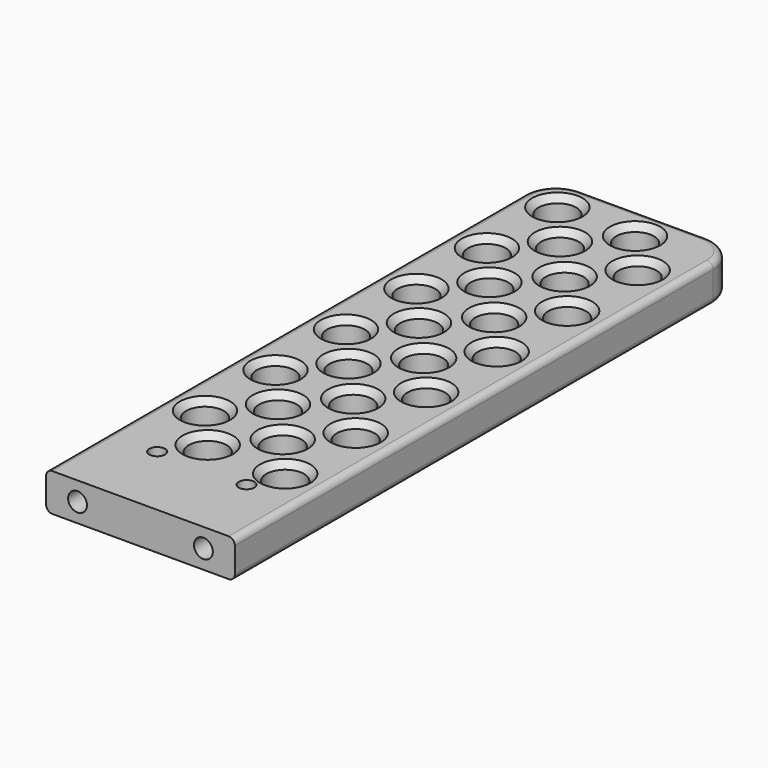
from build123d import *

# Parameters (mm, degrees)
F0_W     = 30
F0_H     = 100
F0_R     = 1.25
F1_DEPTH = 6
F2_R     = 3
F2_R_2   = 3.0525598616
F3_DEPTH = 6.001
F4_R     = 5
F5_SIZE  = 1
F6_R     = 1
F7_R     = 1.5
F8_DEPTH = 6


with BuildPart() as f1:
    # F0 (on Top) → F1 (new body)
    with BuildSketch(Plane.XY):
        Rectangle(F0_W, F0_H)
        with Locations((-7.1, -37.8)):
            Circle(F0_R, mode=Mode.SUBTRACT)
        with Locations((7.1, -37.8)):
            Circle(F0_R, mode=Mode.SUBTRACT)
    extrude(amount=F1_DEPTH)

    # F2 (on Top) → F3 (cut, through all)
    with BuildSketch(Plane.XY):
        with Locations((-9.3485760093, -25.5)):
            Circle(F2_R)
        with Locations((-3.3485760093, -18.5)):
            Circle(F2_R)
        with Locations((3, -25.5)):
            Circle(F2_R)
        with Locations((9, -18.5)):
            Circle(F2_R)
        with Locations((9, -32.5)):
            Circle(F2_R)
        with Locations((-3.3485760093, -32.4681438506)):
            Circle(F2_R)
        with Locations((-9.3485760093, -11.5)):
            Circle(F2_R)
        with Locations((3, -11.5)):
            Circle(F2_R)
        with Locations((-3.3485760093, -4.5)):
            Circle(F2_R)
        with Locations((3, 2.5)):
            Circle(F2_R_2)
        with Locations((9, 9.498416102)):
            Circle(F2_R)
        with Locations((-3.3485760093, 9.498416102)):
            Circle(F2_R)
        with Locations((-9.3485760093, 16.498416102)):
            Circle(F2_R)
        with Locations((3, 16.498416102)):
            Circle(F2_R)
        with Locations((-3.3485760093, 23.498416102)):
            Circle(F2_R)
        with Locations((-9.3485760093, 30.498416102)):
            Circle(F2_R)
        with Locations((3, 30.498416102)):
            Circle(F2_R)
        with Locations((-3.3485760093, 37.498416102)):
            Circle(F2_R)
        with Locations((-9.3485760093, 44.4896388961)):
            Circle(F2_R)
        with Locations((3, 44.4896388961)):
            Circle(F2_R)
        with Locations((9, -4.5)):
            Circle(F2_R)
        with Locations((9, 23.498416102)):
            Circle(F2_R)
        with Locations((9, 37.498416102)):
            Circle(F2_R)
        with Locations((-9.3485760093, 2.5)):
            Circle(F2_R)
    extrude(amount=F3_DEPTH, mode=Mode.SUBTRACT)

    # F4
    f4_edges = [f1.edges().sort_by_distance(p)[0] for p in [
        (15, 50, 3),
        (-15, 50, 3),
    ]]
    fillet(f4_edges, radius=F4_R)

    # F5
    f5_edges = [f1.edges().sort_by_distance(p)[0] for p in [
        (-6.348576, -32.468144, 6),
        (-12.348576, -25.5, 6),
        (-6.348576, -18.5, 6),
        (0, -25.5, 6),
        (6, -32.5, 6),
        (6, -18.5, 6),
        (0, -11.5, 6),
        (-12.348576, -11.5, 6),
        (-6.348576, -4.5, 6),
        (-12.348576, 2.5, 6),
        (-0.05256, 2.5, 6),
        (6, -4.5, 6),
        (6, 9.498416, 6),
        (-6.348576, 9.498416, 6),
        (-12.348576, 16.498416, 6),
        (-6.348576, 23.498416, 6),
        (0, 16.498416, 6),
        (6, 23.498416, 6),
        (0, 30.498416, 6),
        (6, 37.498416, 6),
        (0, 44.489639, 6),
        (-6.348576, 37.498416, 6),
        (-12.348576, 44.489639, 6),
        (-12.348576, 30.498416, 6),
        (6, -32.5, 0),
        (-6.348576, -32.468144, 0),
        (-12.348576, -25.5, 0),
        (0, -25.5, 0),
        (6, -18.5, 0),
        (-6.348576, -18.5, 0),
        (-12.348576, -11.5, 0),
        (0, -11.5, 0),
        (6, -4.5, 0),
        (-6.348576, -4.5, 0),
        (-0.05256, 2.5, 0),
        (-12.348576, 2.5, 0),
        (-6.348576, 9.498416, 0),
        (6, 9.498416, 0),
        (0, 16.498416, 0),
        (-12.348576, 16.498416, 0),
        (6, 23.498416, 0),
        (-6.348576, 23.498416, 0),
        (-12.348576, 30.498416, 0),
        (0, 30.498416, 0),
        (6, 37.498416, 0),
        (-6.348576, 37.498416, 0),
        (0, 44.489639, 0),
        (-12.348576, 44.489639, 0),
    ]]
    chamfer(f5_edges, length=F5_SIZE)

    # F6
    f6_edges = [f1.edges().sort_by_distance(p)[0] for p in [
        (15, -2.5, 6),
        (15, -2.5, 0),
        (13.535534, 48.535534, 0),
    ]]
    fillet(f6_edges, radius=F6_R)

    # F7 (on face) → F8 (cut)
    with BuildSketch(Plane.XZ.offset(50)):
        with Locations((-10, 3)):
            Circle(F7_R)
        with Locations((10, 3)):
            Circle(F7_R)
    extrude(amount=-F8_DEPTH, mode=Mode.SUBTRACT)


solid = f1.part
